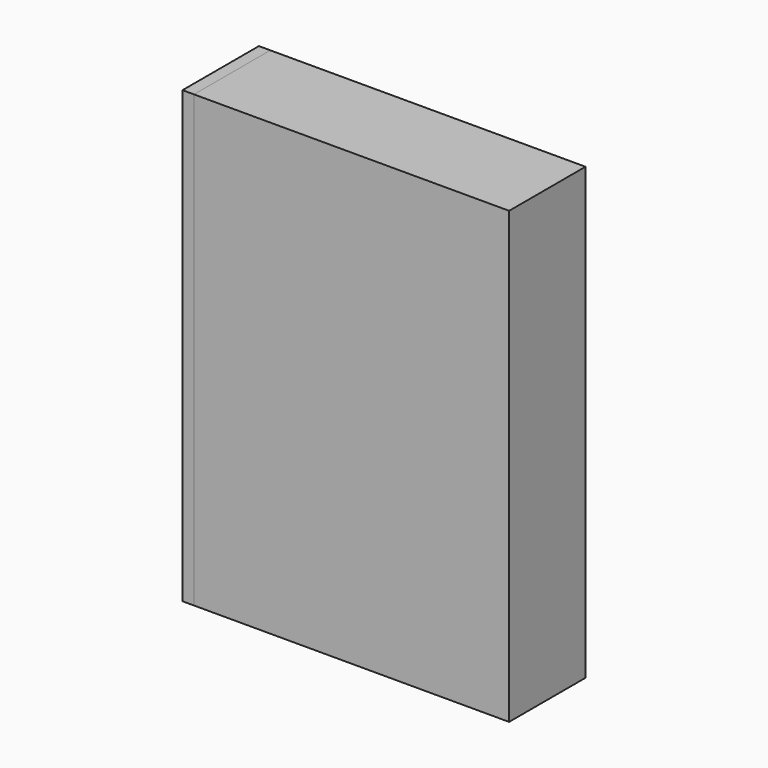
from build123d import *

# Parameters (mm, degrees)
F0_W      = 82.54743
F0_H      = 15.133698
F0_H_2    = 102.725692
F1_DEPTH  = 25
F1_FACE_W = 25
F1_FACE_H = 117.85939
F2_DEPTH  = 3


with BuildPart() as f1:
    # F0 (on Front) → F1 (new body)
    with BuildSketch(Plane.XZ):
        with Locations((1.834394, 55.260917)):
            Rectangle(F0_W, F0_H)
        with Locations((1.834394, -3.668778)):
            Rectangle(F0_W, F0_H_2)
    extrude(amount=F1_DEPTH)


with BuildPart() as f2:
    # F1_face (on face) → F2 (new body)
    with BuildSketch(Plane(origin=(-39.439321, -12.5, 3.898071), x_dir=(0, -1, 0), z_dir=(-1, 0, 0))):
        Rectangle(F1_FACE_W, F1_FACE_H)
    extrude(amount=F2_DEPTH)


solid = Compound([f1.part, f2.part])
